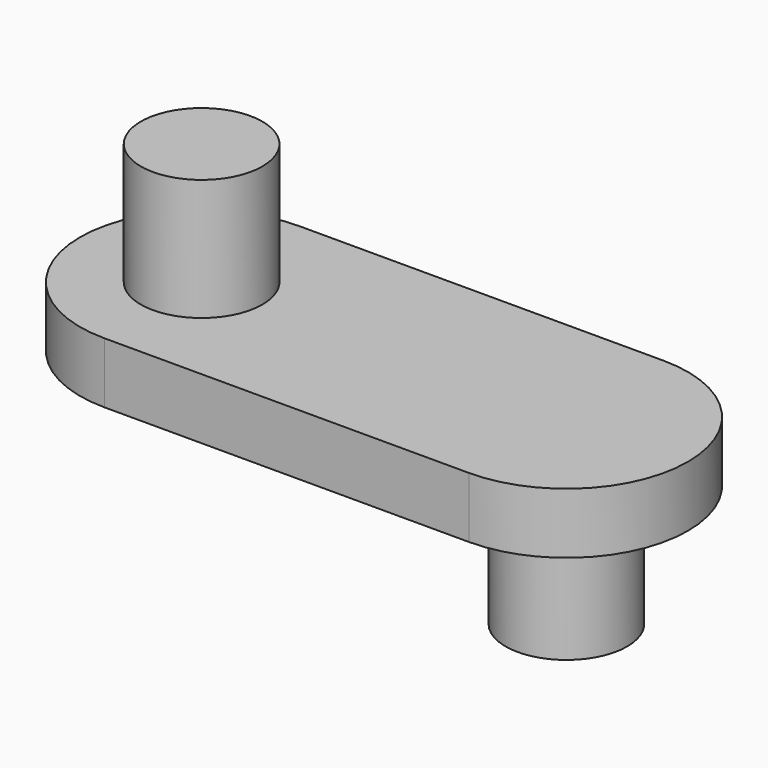
from build123d import *

# Parameters (mm, degrees)
F1_DEPTH = 5
F2_R     = 5
F3_DEPTH = 10
F4_R     = 5
F5_DEPTH = 10


with BuildPart() as f1:
    # F0 (on Top) → F1 (new body)
    with BuildSketch(Plane.XY):
        with BuildLine():
            ThreePointArc((0, 20), (-10, 10), (0, 0))
            Line((0, 0), (30, 0))
            ThreePointArc((30, 0), (40, 10), (30, 20))
            Line((30, 20), (0, 20))
        make_face()
    extrude(amount=F1_DEPTH)

    # F2 (on face) → F3 (join)
    with BuildSketch(Plane.XY.offset(5)):
        with Locations((0, 10)):
            Circle(F2_R)
    extrude(amount=F3_DEPTH)

    # F4 (on face) → F5 (join)
    with BuildSketch(Plane(origin=(0, 0, 0), x_dir=(1, 0, 0), z_dir=(0, 0, -1))):
        with Locations((30, -10)):
            Circle(F4_R)
    extrude(amount=F5_DEPTH)


solid = f1.part
